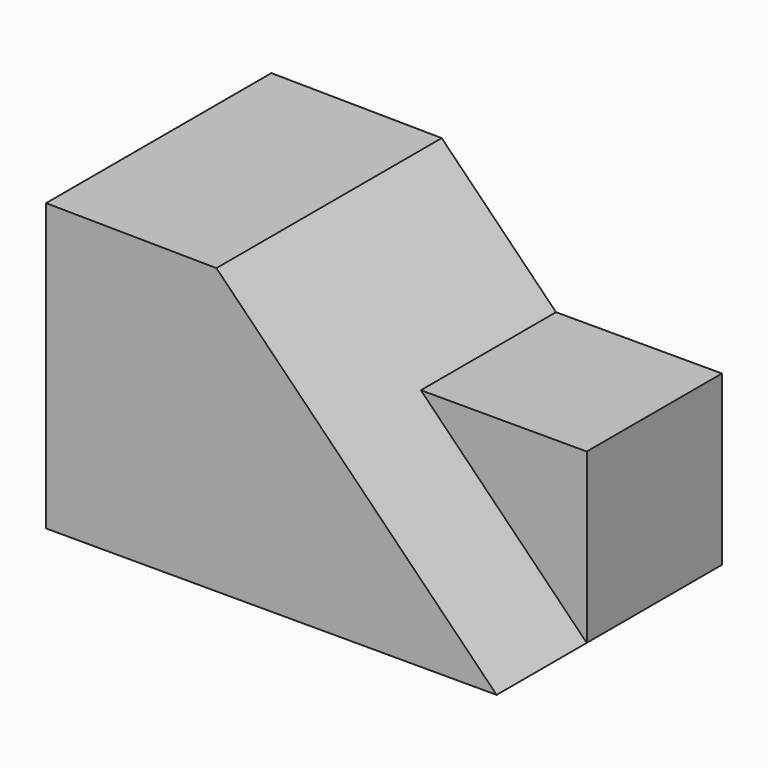
from build123d import *

# Parameters (mm, degrees)
F1_DEPTH = 31.75
F3_DEPTH = 12.7
F5_DEPTH = 19.051


with BuildPart() as f1:
    # F0 (on Front) → F1 (new body)
    with BuildSketch(Plane.XZ):
        Polygon((50.8, 31.75), (0, 32.2926561947), (0, 0), (50.8, 0), align=None)
    extrude(amount=F1_DEPTH)

    # F2 (on face) → F3 (cut)
    with BuildSketch(Plane.XZ.offset(31.75)):
        Polygon((50.8, 31.75), (19.2072158541, 32.0874807091), (50.8, 0), align=None)
    extrude(amount=-F3_DEPTH, mode=Mode.SUBTRACT)

    # F4 (on face) → F5 (cut, through all)
    with BuildSketch(Plane.XZ.offset(19.05)):
        Polygon((32.0955355752, 18.997348845), (50.8, 18.997348845), (50.8, 31.75), (19.2072158541, 32.0874807091), align=None)
    extrude(amount=-F5_DEPTH, mode=Mode.SUBTRACT)


solid = f1.part
